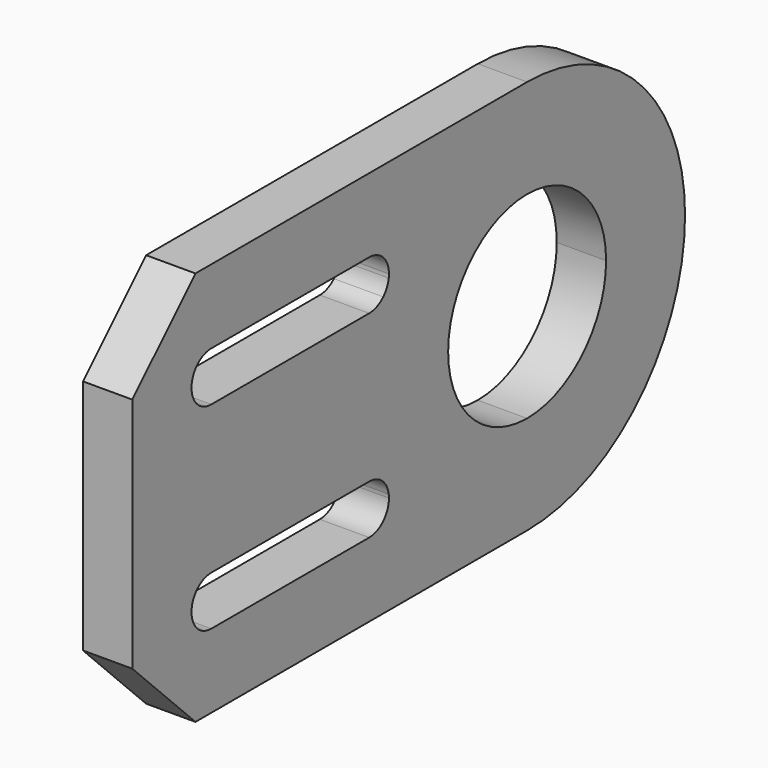
from build123d import *

# Parameters (mm, degrees)
F1_DEPTH = 1.5875


with BuildPart() as f1:
    # F0 (on Right) → F1 (new body)
    with BuildSketch(Plane.YZ):
        with BuildLine():
            Line((0, 3.175), (0, 6.35))
            ThreePointArc((0, 6.35), (-3.232663, 5.465564), (-5.564827, 3.058627))
            ThreePointArc((-5.564827, 3.058627), (-5.640048, 2.820024), (-5.785798, 2.616686))
            ThreePointArc((-5.785798, 2.616686), (-6.35, 0), (-5.785798, -2.616686))
            ThreePointArc((-5.785798, -2.616686), (-5.640048, -2.820024), (-5.564827, -3.058627))
            ThreePointArc((-5.564827, -3.058627), (-3.232663, -5.465564), (0, -6.35))
            Line((0, -6.35), (0, -3.175))
            ThreePointArc((0, -3.175), (-3.175, 0), (0, 3.175))
        make_face()
        with BuildLine():
            ThreePointArc((0, -6.35), (4.490128, -4.490128), (6.35, 0))
            ThreePointArc((6.35, 0), (4.490128, 4.490128), (0, 6.35))
            Line((0, 6.35), (0, 3.175))
            ThreePointArc((0, 3.175), (2.245064, 2.245064), (3.175, 0))
            ThreePointArc((3.175, 0), (2.245064, -2.245064), (0, -3.175))
            Line((0, -3.175), (0, -6.35))
        make_face()
        with BuildLine():
            ThreePointArc((-5.564827, 3.058627), (-3.232663, 5.465564), (0, 6.35))
            Line((0, 6.35), (-13.335, 6.35))
            Line((-13.335, 6.35), (-15.875, 3.81))
            Line((-15.875, 3.81), (-15.875, -3.81))
            Line((-15.875, -3.81), (-13.335, -6.35))
            Line((-13.335, -6.35), (0, -6.35))
            ThreePointArc((0, -6.35), (-3.232663, -5.465564), (-5.564827, -3.058627))
            ThreePointArc((-5.564827, -3.058627), (-5.558397, -3.116656), (-5.55625, -3.175))
            ThreePointArc((-5.55625, -3.175), (-5.788734, -3.736266), (-6.35, -3.96875))
            Line((-6.35, -3.96875), (-12.7, -3.96875))
            ThreePointArc((-12.7, -3.96875), (-13.49375, -3.175), (-12.7, -2.38125))
            Line((-12.7, -2.38125), (-6.35, -2.38125))
            ThreePointArc((-6.35, -2.38125), (-6.044323, -2.44247), (-5.785798, -2.616686))
            ThreePointArc((-5.785798, -2.616686), (-6.35, 0), (-5.785798, 2.616686))
            ThreePointArc((-5.785798, 2.616686), (-6.044323, 2.44247), (-6.35, 2.38125))
            Line((-6.35, 2.38125), (-12.7, 2.38125))
            ThreePointArc((-12.7, 2.38125), (-13.49375, 3.175), (-12.7, 3.96875))
            Line((-12.7, 3.96875), (-6.35, 3.96875))
            ThreePointArc((-6.35, 3.96875), (-5.788734, 3.736266), (-5.55625, 3.175))
            ThreePointArc((-5.55625, 3.175), (-5.558397, 3.116656), (-5.564827, 3.058627))
        make_face()
    extrude(amount=F1_DEPTH)


solid = f1.part
